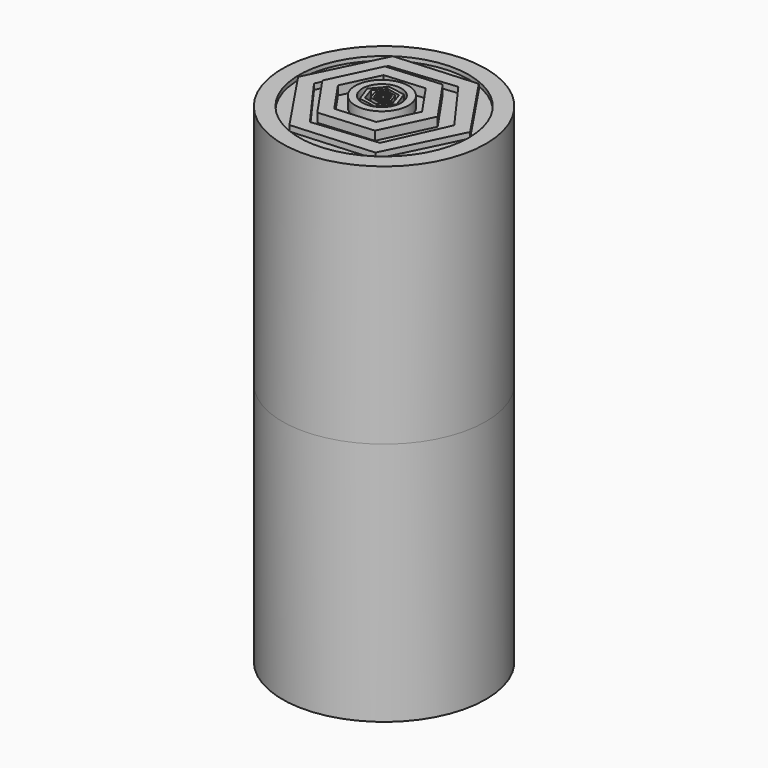
from build123d import *

# Parameters (mm, degrees)
F0_W      = 113.012448
F0_H      = 123.940129
F1_DEPTH  = 76.454
F3_DEPTH  = 101.092
F5_DEPTH  = 99.568
F7_DEPTH  = 103.378
F8_W      = 11.922672
F8_H      = 25.046903
F8_W_2    = 12.908016
F9_DEPTH  = 2.286
F10_R     = 0.621429
F11_DEPTH = 0.6858
F12_R     = 26.550664
F13_DEPTH = 1.27
F15_DEPTH = 1.778
F17_DEPTH = 2.794
F18_R     = 8.329505
F18_R_2   = 6.092118
F19_DEPTH = 3.302
F21_DEPTH = 3.556
F23_DEPTH = 3.048
F25_DEPTH = 2.8956
F26_R     = 1.618614
F26_R_2   = 1.245405
F27_DEPTH = 2.8956
F29_DEPTH = 2.6924
F30_R     = 98.414689
F30_R_2   = 31.825087
F31_DEPTH = 92.964


with BuildPart() as f1:
    # F0 (on Top) → F1 (new body)
    with BuildSketch(Plane.XY):
        with Locations((4.576676, -1.209681)):
            Rectangle(F0_W, F0_H)
    extrude(amount=F1_DEPTH)

    # F2 (on face) → F3 (cut)
    with BuildSketch(Plane.XY.offset(76.454)):
        Polygon((-51.929548, 60.760383), (-51.929548, 0), (-14.090432, 60.760383), align=None)
    extrude(amount=-F3_DEPTH, mode=Mode.SUBTRACT)

    # F4 (on face) → F5 (cut)
    with BuildSketch(Plane.XY.offset(76.454)):
        Polygon((13.499225, 60.760383), (61.0829, 0), (61.0829, 60.760383), align=None)
    extrude(amount=-F5_DEPTH, mode=Mode.SUBTRACT)

    # F6 (on face) → F7 (cut)
    with BuildSketch(Plane.XY.offset(76.454)):
        Polygon((-14.090432, 60.760383), (-51.929548, 0), (-0.295603, 60.760383), align=None)
        Polygon((13.499225, 60.760383), (-0.295603, 60.760383), (61.0829, 0), align=None)
    extrude(amount=-F7_DEPTH, mode=Mode.SUBTRACT)

    # F8 (on face) → F9 (cut)
    with BuildSketch(Plane.XY.offset(76.454)):
        with Locations((-5.961336, -50.656295)):
            Rectangle(F8_W, F8_H)
        with Locations((6.454008, -50.656295)):
            Rectangle(F8_W_2, F8_H)
    extrude(amount=-F9_DEPTH, mode=Mode.SUBTRACT)

    # F10 (on face) → F11 (join)
    with BuildSketch(Plane.XY.offset(74.168)):
        with Locations((-1.345813, -50.279461)):
            Circle(F10_R)
        with Locations((1.885621, -50.238032)):
            Circle(F10_R)
    extrude(amount=F11_DEPTH)

    # F12 (on face) → F13 (cut)
    with BuildSketch(Plane.XY.offset(76.454)):
        with Locations((1.504538, 13.202349)):
            Circle(F12_R)
    extrude(amount=-F13_DEPTH, mode=Mode.SUBTRACT)

    # F14 (on face) → F15 (join)
    with BuildSketch(Plane.XY.offset(75.184)):
        Polygon((12.751438, 36.157132), (-12.751438, 34.419841), (-23.998337, 11.465057), (-9.742361, -9.752435), (15.760514, -8.015144), (27.007414, 14.93964), align=None)
        Polygon((-6.828518, -5.384374), (-18.758564, 11.125626), (-10.425508, 29.712349), (9.837595, 31.789072), (21.767641, 15.279072), (13.434584, -3.307651), align=None, mode=Mode.SUBTRACT)
    extrude(amount=F15_DEPTH)

    # F16 (on face) → F17 (join)
    with BuildSketch(Plane.XY.offset(75.184)):
        Polygon((-16.9584, 12.139062), (-7.321048, -1.878684), (9.637352, -0.541365), (16.9584, 14.8137), (7.321048, 28.831446), (-9.637352, 27.494127), align=None)
        Polygon((7.031429, 3.249008), (-5.34145, 2.273298), (-12.372879, 12.500671), (-7.031429, 23.703754), (5.34145, 24.679464), (12.372879, 14.452091), align=None, mode=Mode.SUBTRACT)
    extrude(amount=F17_DEPTH)

    # F18 (on face) → F19 (join)
    with BuildSketch(Plane.XY.offset(75.184)):
        with Locations((0, 14.219483)):
            Circle(F18_R)
        with Locations((0, 14.219483)):
            Circle(F18_R_2, mode=Mode.SUBTRACT)
    extrude(amount=F19_DEPTH)

    # F20 (on face) → F21 (join)
    with BuildSketch(Plane.XY.offset(75.184)):
        Polygon((-2.917235, 18.868994), (-5.485212, 14.017839), (-2.567977, 9.368329), (2.917235, 9.569973), (5.485212, 14.421128), (2.567977, 19.070638), align=None)
        Polygon((-2.18643, 10.301922), (-4.485922, 14.154206), (-2.299493, 18.071767), (2.18643, 18.137044), (4.485922, 14.28476), (2.299493, 10.367199), align=None, mode=Mode.SUBTRACT)
    extrude(amount=-F21_DEPTH)

    # F22 (on face) → F23 (join)
    with BuildSketch(Plane.XY.offset(75.184)):
        Polygon((-1.87018, 19.37121), (-5.396616, 15.175724), (-3.526437, 10.023997), (1.87018, 9.067756), (5.396616, 13.263243), (3.526437, 18.41497), align=None)
        Polygon((-2.822472, 11.049773), (-4.156286, 15.078961), (-1.333814, 18.248671), (2.822472, 17.389194), (4.156286, 13.360006), (1.333814, 10.190296), align=None, mode=Mode.SUBTRACT)
    extrude(amount=F23_DEPTH)

    # F24 (on face) → F25 (join)
    with BuildSketch(Plane.XY.offset(75.184)):
        Polygon((-0.955476, 17.510887), (-2.977351, 15.240268), (-2.021875, 12.353964), (0.955476, 11.738278), (2.977351, 14.008897), (2.021875, 16.895202), align=None)
        Polygon((-1.423189, 12.827654), (-2.267781, 14.958636), (-0.844592, 16.755565), (1.423189, 16.421512), (2.267781, 14.290529), (0.844592, 12.4936), align=None, mode=Mode.SUBTRACT)
    extrude(amount=F25_DEPTH)

    # F26 (on face) → F27 (join)
    with BuildSketch(Plane.XY.offset(75.184)):
        with Locations((0.137317, 14.769351)):
            Circle(F26_R)
        with Locations((0.137317, 14.769351)):
            Circle(F26_R_2, mode=Mode.SUBTRACT)
    extrude(amount=F27_DEPTH)

    # F28 (on face) → F29 (join)
    with BuildSketch(Plane.XY.offset(75.184)):
        Polygon((-0.110171, 15.806148), (-0.871044, 15.152074), (-0.685036, 14.166102), (0.261845, 13.834204), (1.022717, 14.488278), (0.836709, 15.47425), align=None)
        Polygon((-0.488767, 14.24752), (-0.7024, 15.022809), (-0.137796, 15.595465), (0.64044, 15.392832), (0.854073, 14.617543), (0.28947, 14.044887), align=None, mode=Mode.SUBTRACT)
    extrude(amount=F29_DEPTH)

    # F30 (on face) → F31 (cut)
    with BuildSketch(Plane.XY.offset(76.454)):
        with Locations((1.504538, 13.202349)):
            Circle(F30_R)
        with Locations((1.504538, 13.202349)):
            Circle(F30_R_2, mode=Mode.SUBTRACT)
    extrude(amount=-F31_DEPTH, mode=Mode.SUBTRACT)

    # F32: F1 across plane


with BuildPart() as f1_1:
    add(f1.part)
    add(f1.part.mirror(Plane.XY))


solid = f1_1.part
